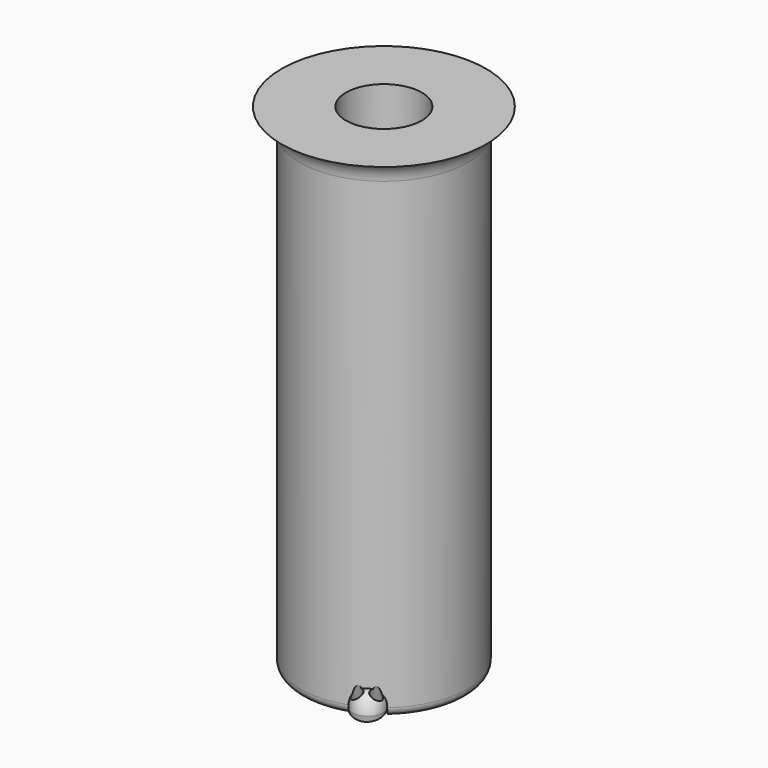
from build123d import *

# Parameters (mm, degrees)
REVOLUTION004_ANGLE  = -100
REVOLUTION005_ANGLE  = 20
SKETCH031_R          = 0.35
POCKET013_DEPTH      = 31.3699086086
POCKET013_DEPTH_BACK = 5.5591492512
POCKET014_DEPTH      = 5
BODY_PLACEMENT_ANGLE = 120


with BuildPart() as part:
    # Sketch → Revolution (revolve)
    with BuildSketch(Plane(origin=(0, 0, 0), x_dir=(1, 0, 0), z_dir=(0, 1, 0))):
        with BuildLine():
            Line((-0.9, 27.9712621187), (-0.9, 28.9712621187))
            ThreePointArc((-4.3317248535, 32.1612621187), (-3.0637821782, 30.0844008824), (-0.9, 28.9712621187))
            ThreePointArc((-4.3317248535, 32.1612621187), (-4.9861281558, 32.5896762436), (-5.5, 32))
            Line((-5.5, 1.4772116295), (-5.5, 32))
            ThreePointArc((-6.7395277335, 0), (-5.8509333353, 0.513030215), (-5.5, 1.4772116295))
            Line((-2.5, 0), (-6.7395277335, 0))
            Line((-2.5, 23.5752982475), (-2.5, 0))
            Line((-0.9, 27.9712621187), (-2.5, 23.5752982475))
        make_face()
    revolve(axis=Axis((0, 0, 0), (0, 0, -1)))

    # Sketch030 (on DatumPlane) → Revolution004 (revolve)
    with BuildSketch(Plane.YX.offset(32)):
        with BuildLine():
            ThreePointArc((5.1823397364, 1.8421060927), (5.6291651246, 3.25), (4.1864805409, 3.5669848164))
            ThreePointArc((5.1823397364, 1.8421060927), (4.7631397208, 2.75), (4.1864805409, 3.5669848164))
        make_face()
    revolve(axis=Axis((2.7045454545, 4.6844101387, -32), (-0.8660254038, 0.5, 0)), revolution_arc=REVOLUTION004_ANGLE)

    # Sketch030 (on DatumPlane) → Revolution005 (revolve)
    with BuildSketch(Plane.YX.offset(32)):
        with BuildLine():
            ThreePointArc((5.1823397364, 1.8421060927), (5.6291651246, 3.25), (4.1864805409, 3.5669848164))
            ThreePointArc((5.1823397364, 1.8421060927), (4.7631397208, 2.75), (4.1864805409, 3.5669848164))
        make_face()
    revolve(axis=Axis((2.7045454545, 4.6844101387, -32), (-0.8660254038, 0.5, 0)), revolution_arc=REVOLUTION005_ANGLE)

    # Sketch031 (on Face8 of Revolution005) → Pocket013 (cut, two sides)
    with BuildSketch(Plane(origin=(-4.8259291585, -8.3587544963, -26.5182627819), x_dir=(0.9852692806, -0.0514101727, -0.163099475), z_dir=(-0.1710100717, -0.2961981327, -0.9396926208))) as pocket013_sk:
        with Locations((7.23, -14.31186835)):
            Circle(SKETCH031_R)
        with Locations((8.108973313, -13.8349973873)):
            Circle(SKETCH031_R)
    extrude(amount=-POCKET013_DEPTH, mode=Mode.SUBTRACT)
    extrude(pocket013_sk.sketch, amount=POCKET013_DEPTH_BACK, mode=Mode.SUBTRACT)

    # Sketch032 (on Face8 of Pocket013) → Pocket014 (cut)
    with BuildSketch(Plane(origin=(-4.8259291585, -8.3587544963, -26.5182627819), x_dir=(0.9852692806, -0.0514101727, -0.163099475), z_dir=(-0.1710100717, -0.2961981327, -0.9396926208))):
        with BuildLine():
            ThreePointArc((6.6867656266, -14.1411712329), (8.163285289, -15.0466488344), (8.2091920632, -13.3152064969))
            Line((6.6867656266, -14.1411712329), (8.2091920632, -13.3152064969))
        make_face()
    extrude(amount=POCKET014_DEPTH, mode=Mode.SUBTRACT)


with BuildPart() as part_1:
    # Body placement: moved
    add(part.part.rotate(Axis((0, 0, 0), (0, 0, -1)), BODY_PLACEMENT_ANGLE))


solid = part_1.part
